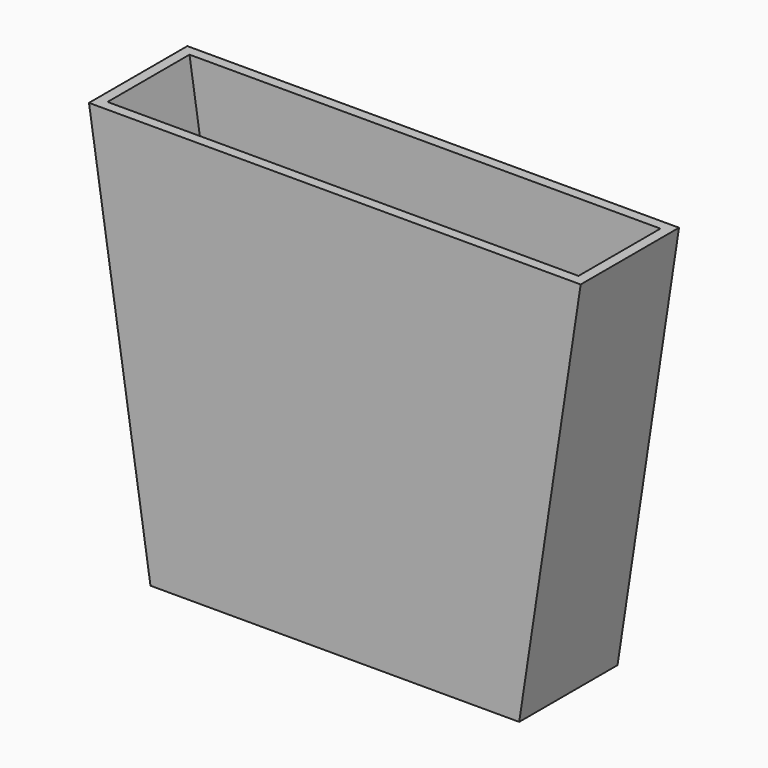
from build123d import *

# Parameters (mm, degrees)
F1_DEPTH = 76.2
F2_T     = -6.35


with BuildPart() as f1:
    # F0 (on Front) → F1 (new body)
    with BuildSketch(Plane.XZ):
        Polygon((72.515871, 0), (-79.884129, 0), (-79.884129, -251.126243), (34.415871, -251.126243), align=None)
        Polygon((-79.884129, 0), (-232.284129, 0), (-194.184129, -251.126243), (-79.884129, -251.126243), align=None)
    extrude(amount=-F1_DEPTH)

    # F2
    f2_openings = [f1.faces().sort_by_distance(p)[0] for p in [
        (-79.884129, 38.1, 0),
    ]]
    offset(amount=F2_T, openings=f2_openings)


solid = f1.part
